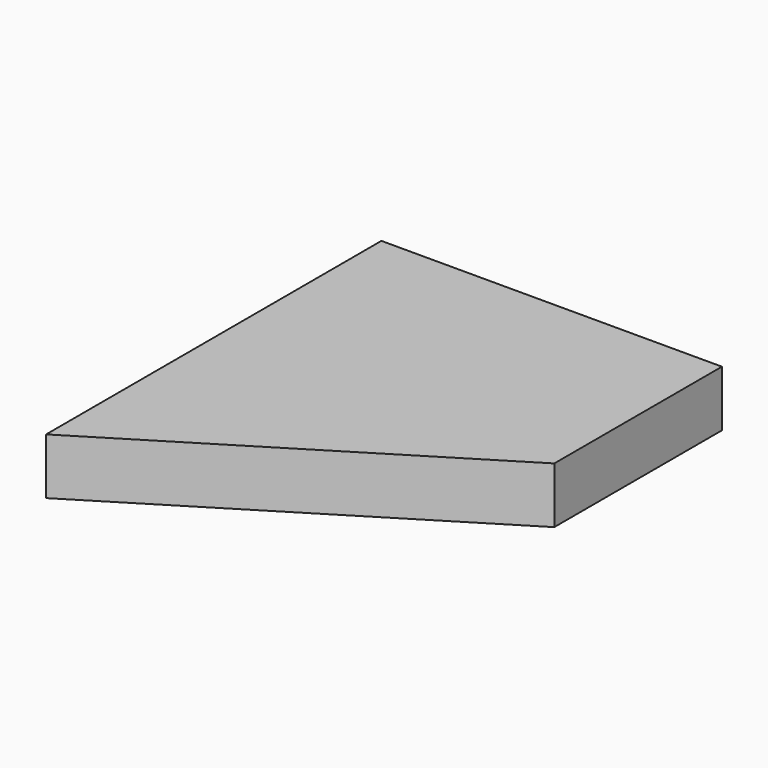
from build123d import *

# Parameters (mm, degrees)
F1_DEPTH = 6.604


with BuildPart() as f1:
    # F0 (on Top) → F1 (new body)
    with BuildSketch(Plane.XY):
        Polygon((40.095717, 49.34857), (0, 24.674285), (40.095717, 24.674285), align=None)
        Polygon((0, 24.674285), (0, 0), (40.095717, 24.674285), align=None)
        Polygon((0, 49.34857), (0, 24.674285), (40.095717, 49.34857), align=None)
    extrude(amount=F1_DEPTH)


solid = f1.part
